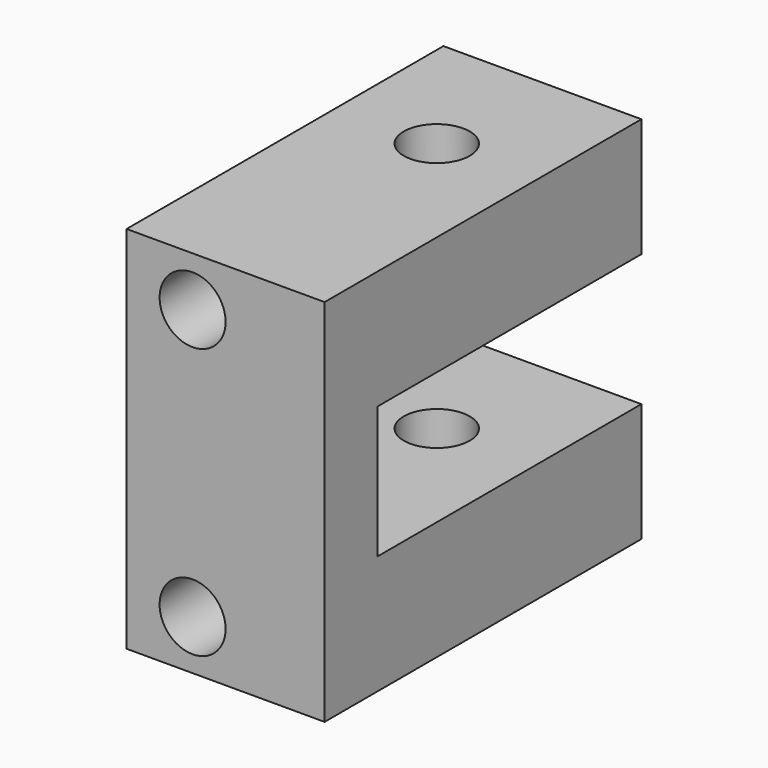
from build123d import *

# Parameters (mm, degrees)
F0_W     = 19.05
F0_H     = 38.1
F1_DEPTH = 35.56
F2_W     = 31.75
F2_H     = 12.7
F3_DEPTH = 25.4
F5_DEPTH = 35.561
F6_R     = 3.175
F7_DEPTH = 6.35


with BuildPart() as f1:
    # F0 (on Top) → F1 (new body)
    with BuildSketch(Plane.XY):
        with Locations((9.525, 19.05)):
            Rectangle(F0_W, F0_H)
    extrude(amount=-F1_DEPTH)

    # F2 (on face) → F3 (cut)
    with BuildSketch(Plane(origin=(0, 0, 0), x_dir=(0, -1, 0), z_dir=(-1, 0, 0))):
        with Locations((-22.225, -17.78)):
            Rectangle(F2_W, F2_H)
    extrude(amount=-F3_DEPTH, mode=Mode.SUBTRACT)

    # F4 (on face) → F5 (cut, through all)
    with BuildSketch(Plane.XY):
        with BuildLine():
            ThreePointArc((12.7, 25.397724), (7.279936, 27.642788), (9.525, 22.222724))
            ThreePointArc((9.525, 22.222724), (11.770064, 23.15266), (12.7, 25.397724))
        make_face()
    extrude(amount=-F5_DEPTH, mode=Mode.SUBTRACT)

    # F6 (on face) → F7 (cut)
    with BuildSketch(Plane.XZ):
        with Locations((6.35, -30.7848)):
            Circle(F6_R)
        with Locations((6.35, -4.7752)):
            Circle(F6_R)
    extrude(amount=-F7_DEPTH, mode=Mode.SUBTRACT)


solid = f1.part
